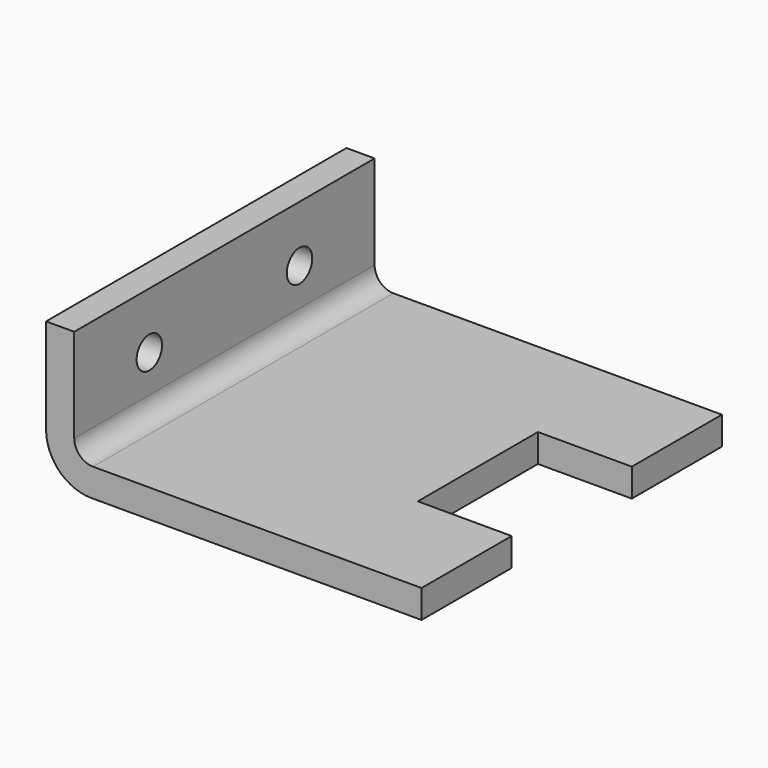
from build123d import *

# Parameters (mm, degrees)
F1_DEPTH = 19.05
F2_W     = 46.99
F2_H     = 15.24
F3_DEPTH = 50.801
F4_R     = 2.15265
F5_DEPTH = 3.811
F6_R     = 2.54
F7_R     = 6.132068


with BuildPart() as f1:
    # F0 (on Top) → F1 (new body)
    with BuildSketch(Plane.XY):
        Polygon((38.1, 15.24), (38.1, 35.56), (50.8, 35.56), (50.8, 50.8), (0, 50.8), (0, 0), (50.8, 0), (50.8, 15.24), align=None)
    extrude(amount=F1_DEPTH)

    # F2 (on face) → F3 (cut, through all)
    with BuildSketch(Plane(origin=(0, 50.8, 0), x_dir=(-1, 0, 0), z_dir=(0, 1, 0))):
        with Locations((-27.305, 11.43)):
            Rectangle(F2_W, F2_H)
    extrude(amount=-F3_DEPTH, mode=Mode.SUBTRACT)

    # F4 (on face) → F5 (cut, through all)
    with BuildSketch(Plane.YZ.offset(3.81)):
        with Locations((38.1, 11.43)):
            Circle(F4_R)
        with Locations((12.7, 11.43)):
            Circle(F4_R)
    extrude(amount=-F5_DEPTH, mode=Mode.SUBTRACT)

    # F6
    f6_edges = [f1.edges().sort_by_distance(p)[0] for p in [
        (3.81, 25.4, 3.81),
    ]]
    fillet(f6_edges, radius=F6_R)

    # F7
    f7_edges = [f1.edges().sort_by_distance(p)[0] for p in [
        (0, 25.4, 0),
    ]]
    fillet(f7_edges, radius=F7_R)


solid = f1.part
